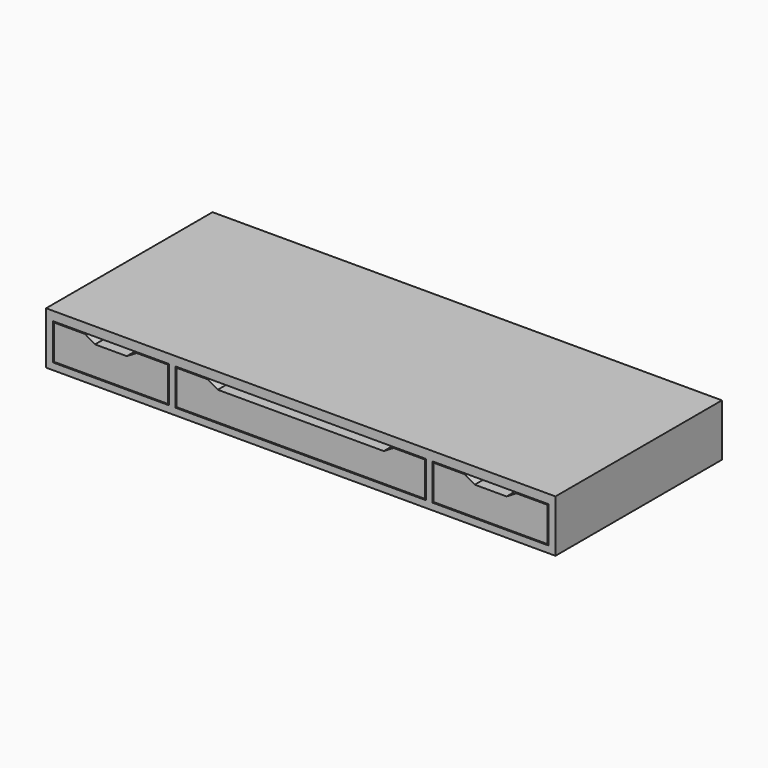
from build123d import *

# Parameters (mm, degrees)
F0_W     = 1422.4
F0_H     = 146.05
F1_DEPTH = 581.025
F3_DEPTH = 565.15


with BuildPart() as f1:
    # F0 (on Front) → F1 (new body)
    with BuildSketch(Plane.XZ):
        with Locations((711.2, 73.025)):
            Rectangle(F0_W, F0_H)
    extrude(amount=F1_DEPTH)

    # F2 (on face) → F3 (cut)
    with BuildSketch(Plane.XZ.offset(581.025)):
        Polygon((104.775, 120.65), (19.05, 120.65), (19.05, 19.05), (342.9, 19.05), (342.9, 120.65), (257.175, 120.65), (252.9416666667, 118.11), (340.36, 118.11), (340.36, 21.59), (21.59, 21.59), (21.59, 118.11), (109.0083333333, 118.11), align=None)
        Polygon((361.95, 120.65), (361.95, 19.05), (1060.45, 19.05), (1060.45, 120.65), (974.725, 120.65), (970.4916666667, 118.11), (1057.91, 118.11), (1057.91, 21.59), (364.49, 21.59), (364.49, 118.11), (451.9083333333, 118.11), (447.675, 120.65), align=None)
        Polygon((1165.225, 120.65), (1079.5, 120.65), (1079.5, 19.05), (1403.35, 19.05), (1403.35, 120.65), (1317.625, 120.65), (1313.3916666667, 118.11), (1400.81, 118.11), (1400.81, 21.59), (1082.04, 21.59), (1082.04, 118.11), (1169.4583333333, 118.11), align=None)
        Polygon((1317.625, 120.65), (1165.225, 120.65), (1169.4583333333, 118.11), (1313.3916666667, 118.11), align=None)
        Polygon((1313.3916666667, 118.11), (1169.4583333333, 118.11), (1196.975, 101.6), (1285.875, 101.6), align=None)
        Polygon((970.4916666667, 118.11), (451.9083333333, 118.11), (479.425, 101.6), (942.975, 101.6), align=None)
        Polygon((974.725, 120.65), (447.675, 120.65), (451.9083333333, 118.11), (970.4916666667, 118.11), align=None)
        Polygon((257.175, 120.65), (104.775, 120.65), (109.0083333333, 118.11), (252.9416666667, 118.11), align=None)
        Polygon((252.9416666667, 118.11), (109.0083333333, 118.11), (136.525, 101.6), (225.425, 101.6), align=None)
    extrude(amount=-F3_DEPTH, mode=Mode.SUBTRACT)


solid = f1.part
